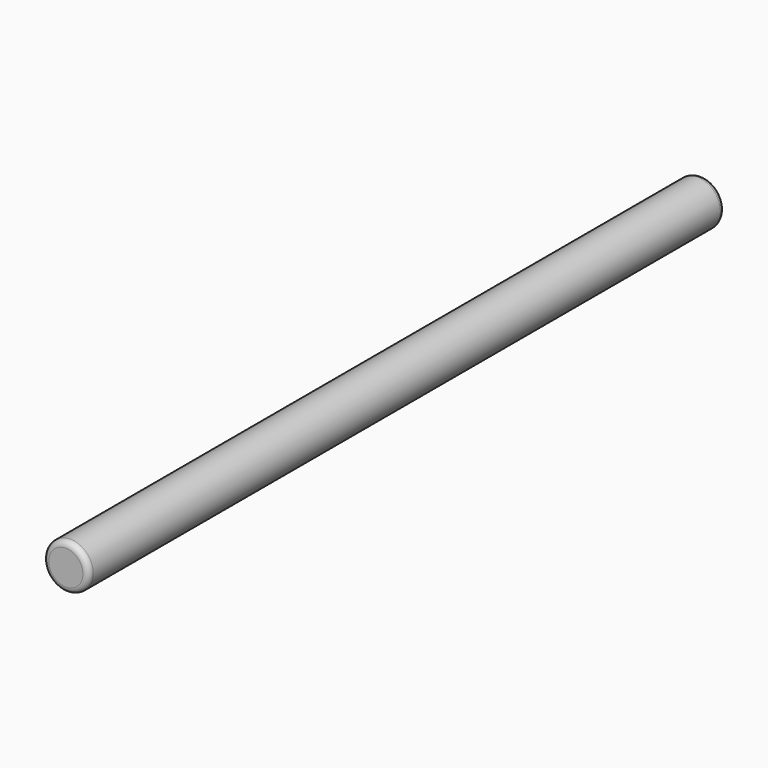
from build123d import *

# Parameters (mm, degrees)
SKETCH_R  = 2
PAD_DEPTH = 69.8
FILLET_R  = 0.5


with BuildPart() as part:
    # Sketch → Pad (new body)
    with BuildSketch(Plane.XZ):
        Circle(SKETCH_R)
    extrude(amount=PAD_DEPTH)

    # Fillet
    fillet_edges = [part.edges().sort_by_distance(p)[0] for p in [
        (-2, -69.8, 0),
        (-2, 0, 0),
    ]]
    fillet(fillet_edges, radius=FILLET_R)


solid = part.part
